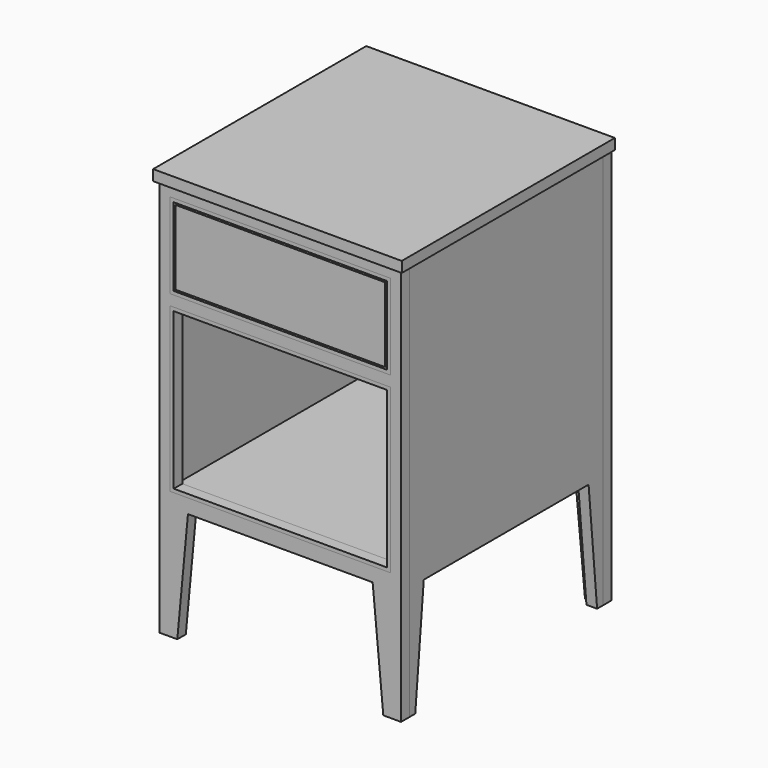
from build123d import *

# Parameters (mm, degrees)
F0_W      = 393.7
F0_H      = 292.1
F0_H_2    = 152.4
F1_DEPTH  = 19.05
F2_W      = 393.7
F2_H      = 292.1
F2_W_2    = 381
F2_H_2    = 279.4
F3_DEPTH  = 19.05
F4_W      = 393.7
F4_H      = 152.4
F4_W_2    = 381.000032
F4_H_2    = 139.700032
F5_DEPTH  = 19.05
F7_DEPTH  = 19.05
F9_DEPTH  = 19.05
F11_W     = 444.5
F11_H     = 476.25
F12_DEPTH = 19.05
F13_W     = 393.7
F13_H     = 19.05
F14_DEPTH = 431.8
F15_W     = 374.650032
F15_H     = 133.350032
F16_DEPTH = 19.05


with BuildPart() as f1:
    # F0 (on Front) → F1 (new body)
    with BuildSketch(Plane.XZ):
        Polygon((0, 711.2), (0, 0), (31.75, 0), (50.8, 203.2), (381, 203.2), (400.05, 0), (431.8, 0), (431.8, 711.2), align=None)
        with Locations((215.9, 374.65)):
            Rectangle(F0_W, F0_H, mode=Mode.SUBTRACT)
        with Locations((215.9, 615.95)):
            Rectangle(F0_W, F0_H_2, mode=Mode.SUBTRACT)
    extrude(amount=F1_DEPTH)


with BuildPart() as f3:
    # F2 (on Front) → F3 (new body)
    with BuildSketch(Plane.XZ):
        with Locations((215.9, 374.65)):
            Rectangle(F2_W, F2_H)
        with Locations((215.9, 374.65)):
            Rectangle(F2_W_2, F2_H_2, mode=Mode.SUBTRACT)
    extrude(amount=F3_DEPTH)


with BuildPart() as f5:
    # F4 (on Front) → F5 (new body)
    with BuildSketch(Plane.XZ):
        with Locations((215.9, 615.95)):
            Rectangle(F4_W, F4_H)
        with Locations((215.9, 615.95)):
            Rectangle(F4_W_2, F4_H_2, mode=Mode.SUBTRACT)
    extrude(amount=F5_DEPTH)


with BuildPart() as f7:
    # F6 (on Right) → F7 (new body)
    with BuildSketch(Plane.YZ):
        Polygon((0, 711.2), (0, 0), (12.7, 0), (31.75, 203.2), (400.05, 203.2), (419.1, 0), (431.8, 0), (431.8, 711.2), align=None)
    extrude(amount=F7_DEPTH)


with BuildPart() as f9:
    # F8 (on face) → F9 (new body)
    with BuildSketch(Plane(origin=(0, 431.8, 0), x_dir=(-1, 0, 0), z_dir=(0, 1, 0))):
        Polygon((-431.8, 711.2), (-431.8, 0), (-400.05, 0), (-381, 203.2), (-50.8, 203.2), (-31.75, 0), (0, 0), (0, 711.2), align=None)
    extrude(amount=F9_DEPTH)


with BuildPart() as f10_1:
    # F10: copy of F7
    add(f7.part.moved(Location((412.75, 0, 0))))


with BuildPart() as f12:
    # F11 (on face) → F12 (new body)
    with BuildSketch(Plane.XY.offset(711.2)):
        with Locations((215.9, 212.725)):
            Rectangle(F11_W, F11_H)
    extrude(amount=F12_DEPTH)


with BuildPart() as f14:
    # F13 (on face) → F14 (new body, through all)
    with BuildSketch(Plane(origin=(0, 0, 0), x_dir=(-1, 0, 0), z_dir=(0, 1, 0))):
        with Locations((-215.9, 225.425)):
            Rectangle(F13_W, F13_H)
    extrude(amount=F14_DEPTH)


with BuildPart() as f16:
    # F15 (on face) → F16 (new body)
    with BuildSketch(Plane.XZ.offset(19.05)):
        with Locations((215.9, 615.95)):
            Rectangle(F15_W, F15_H)
    extrude(amount=-F16_DEPTH)


solid = Compound([f1.part, f3.part, f5.part, f7.part, f9.part, f10_1.part, f12.part, f14.part, f16.part])
